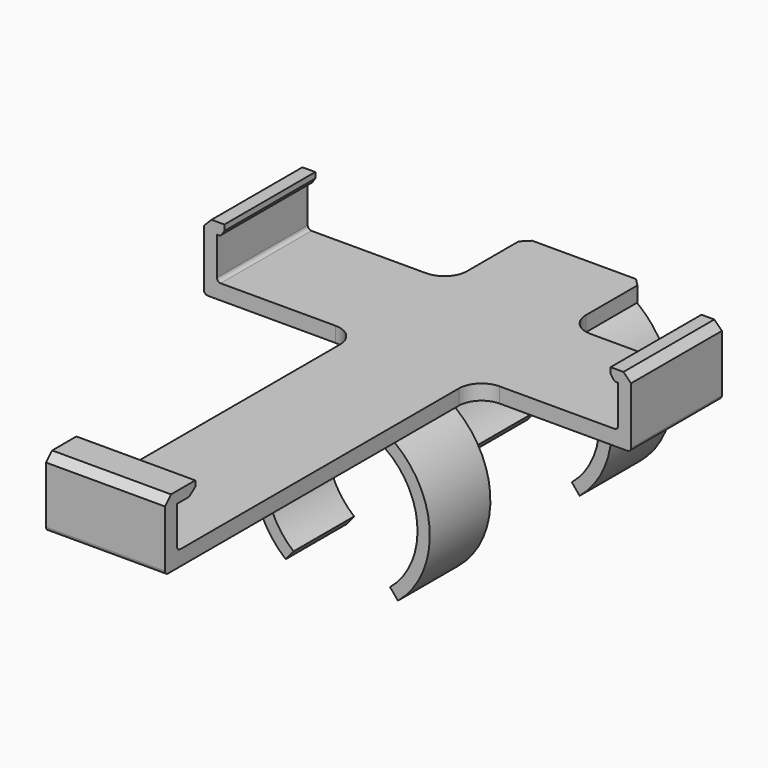
from build123d import *

# Parameters (mm, degrees)
F1_DEPTH       = 25.4
F1_DEPTH_BACK  = 25.4
F2_W           = 25.4
F2_H           = 40.9454388922
F3_DEPTH       = 25.4
F3_DEPTH_BACK  = 25.4
F4_W           = 19.939
F4_H           = 2.54
F5_DEPTH       = 25.4
F5_DEPTH_BACK  = 25.4
F7_DEPTH       = 9.525
F7_DEPTH_BACK  = 9.525
F8_R           = 3.81
F10_DEPTH      = 9.9695
F10_DEPTH_BACK = 9.9695
F11_SIZE       = 1.27
F12_SIZE       = 1.27


with BuildPart() as f1:
    # F0 (on Front) → F1 (new body, two sides)
    with BuildSketch(Plane.XZ) as f1_sk:
        with BuildLine():
            Line((8.09625, -9.7847195125), (9.411890625, -11.3747364332))
            ThreePointArc((9.411890625, -11.3747364332), (0, 14.76375), (-9.411890625, -11.3747364332))
            Line((-9.411890625, -11.3747364332), (-8.09625, -9.7847195125))
            ThreePointArc((-8.09625, -9.7847195125), (0, 12.7), (8.09625, -9.7847195125))
        make_face()
    extrude(amount=F1_DEPTH)
    extrude(f1_sk.sketch, amount=-F1_DEPTH_BACK)

    # F2 (on Right) → F3 (cut, two sides)
    with BuildSketch(Plane.YZ) as f3_sk:
        with Locations((0, 1.1786520481)):
            Rectangle(F2_W, F2_H)
    extrude(amount=-F3_DEPTH, mode=Mode.SUBTRACT)
    extrude(f3_sk.sketch, amount=F3_DEPTH_BACK, mode=Mode.SUBTRACT)

    # F4 (on Front) → F5 (join, two sides)
    with BuildSketch(Plane.XZ) as f5_sk:
        with Locations((0, 13.97)):
            Rectangle(F4_W, F4_H)
    extrude(amount=F5_DEPTH)
    extrude(f5_sk.sketch, amount=-F5_DEPTH_BACK)

    # F6 (on Front) → F7 (join, two sides)
    with BuildSketch(Plane.XZ) as f7_sk:
        with BuildLine():
            Line((-33.655, 12.7), (0, 12.7))
            Line((0, 12.7), (0, 15.24))
            Line((0, 15.24), (-33.02, 15.24))
            ThreePointArc((-33.02, 15.24), (-33.4690128061, 15.4259871939), (-33.655, 15.875))
            Line((-33.655, 15.875), (-33.655, 22.225))
            Line((-33.655, 22.225), (-33.3598416866, 22.225))
            ThreePointArc((-33.3598416866, 22.225), (-33.0602119039, 22.3001366298), (-32.8314897497, 22.5077653754))
            Line((-32.8314897497, 22.5077653754), (-32.385, 23.1775))
            Line((-32.385, 23.1775), (-32.385, 24.13))
            Line((-32.385, 24.13), (-35.814, 24.13))
            Line((-35.814, 24.13), (-35.814, 22.225))
            Line((-35.814, 22.225), (-35.814, 13.335))
            ThreePointArc((-35.814, 13.335), (-35.6280128061, 12.8859871939), (-35.179, 12.7))
            Line((-35.179, 12.7), (-33.655, 12.7))
        make_face()
        with BuildLine():
            Line((0, 15.24), (0, 12.7))
            Line((0, 12.7), (33.655, 12.7))
            Line((33.655, 12.7), (35.179, 12.7))
            ThreePointArc((35.179, 12.7), (35.6280128061, 12.8859871939), (35.814, 13.335))
            Line((35.814, 13.335), (35.814, 22.225))
            Line((35.814, 22.225), (35.814, 24.13))
            Line((35.814, 24.13), (32.385, 24.13))
            Line((32.385, 24.13), (32.385, 23.1775))
            Line((32.385, 23.1775), (32.8314897497, 22.5077653754))
            ThreePointArc((32.8314897497, 22.5077653754), (33.0602119039, 22.3001366298), (33.3598416866, 22.225))
            Line((33.3598416866, 22.225), (33.655, 22.225))
            Line((33.655, 22.225), (33.655, 15.875))
            ThreePointArc((33.655, 15.875), (33.4690128061, 15.4259871939), (33.02, 15.24))
            Line((33.02, 15.24), (0, 15.24))
        make_face()
    extrude(amount=F7_DEPTH)
    extrude(f7_sk.sketch, amount=-F7_DEPTH_BACK)

    # F8
    f8_edges = [f1.edges().sort_by_distance(p)[0] for p in [
        (-9.9695, 9.525, 13.97),
        (9.9695, 9.525, 13.97),
        (9.9695, -9.525, 13.97),
        (-9.9695, -9.525, 13.97),
    ]]
    fillet(f8_edges, radius=F8_R)

    # F9 (on Right) → F10 (join, two sides)
    with BuildSketch(Plane.YZ) as f10_sk:
        with BuildLine():
            Line((-72.39, 12.7), (0, 12.7))
            Line((0, 12.7), (0, 15.24))
            Line((0, 15.24), (-71.755, 15.24))
            ThreePointArc((-71.755, 15.24), (-72.2040128061, 15.4259871939), (-72.39, 15.875))
            Line((-72.39, 15.875), (-72.39, 22.225))
            Line((-72.39, 22.225), (-69.85, 22.225))
            Line((-69.85, 22.225), (-68.58, 23.1775))
            Line((-68.58, 23.1775), (-68.58, 24.13))
            Line((-68.58, 24.13), (-72.39, 24.13))
            Line((-72.39, 24.13), (-74.93, 24.13))
            Line((-74.93, 24.13), (-74.93, 13.335))
            ThreePointArc((-74.93, 13.335), (-74.7440128061, 12.8859871939), (-74.295, 12.7))
            Line((-74.295, 12.7), (-72.39, 12.7))
        make_face()
    extrude(amount=F10_DEPTH)
    extrude(f10_sk.sketch, amount=-F10_DEPTH_BACK)

    # F11
    f11_edges = [f1.edges().sort_by_distance(p)[0] for p in [
        (-9.9695, 25.4, 13.97),
        (9.9695, 25.4, 13.97),
    ]]
    chamfer(f11_edges, length=F11_SIZE)

    # F12
    f12_edges = [f1.edges().sort_by_distance(p)[0] for p in [
        (0, -74.93, 24.13),
        (-35.814, 0, 24.13),
        (35.814, 0, 24.13),
    ]]
    chamfer(f12_edges, length=F12_SIZE)


solid = f1.part
